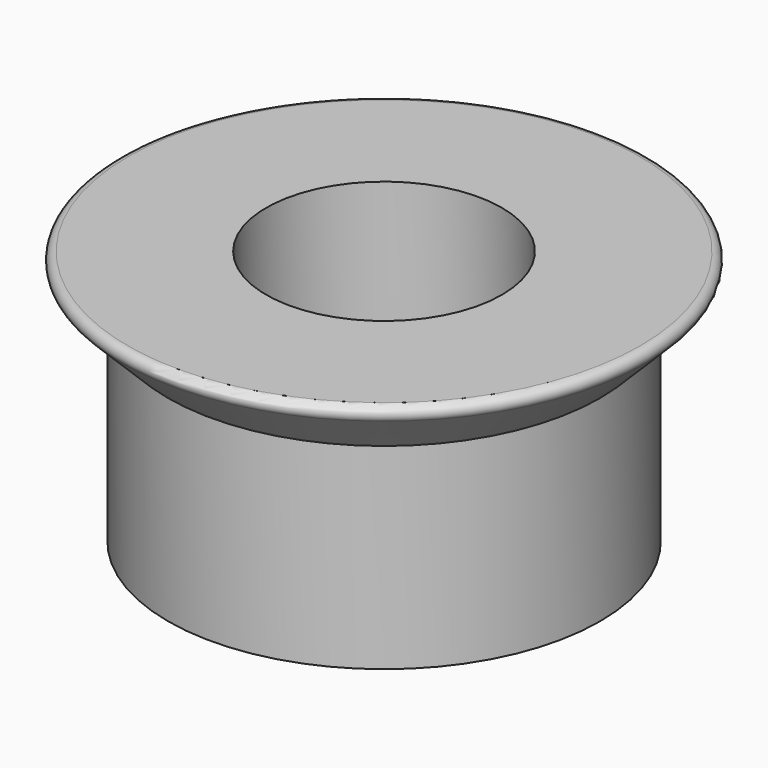
from build123d import *

# Parameters (mm, degrees)
F0_R      = 5.5
F1_DEPTH  = 5
F1_FACE_R = 5.5
F2_DEPTH  = 1.5
F2_TAPER  = -45
F3_R      = 0.2
F4_R      = 1.75
F5_DEPTH  = 6.501
F4_R_2    = 3
F6_DEPTH  = 3.5


with BuildPart() as f1:
    # F0 (on Top) → F1 (new body)
    with BuildSketch(Plane.XY):
        Circle(F0_R)
    extrude(amount=F1_DEPTH)

    # F1_face (on face) → F2 (join)
    with BuildSketch(Plane.XY.offset(5)):
        Circle(F1_FACE_R)
    extrude(amount=F2_DEPTH, taper=F2_TAPER)

    # F3
    f3_edges = [f1.edges().sort_by_distance(p)[0] for p in [
        (-7, 0, 6.5),
    ]]
    fillet(f3_edges, radius=F3_R)

    # F4 (on face) → F5 (cut, through all)
    with BuildSketch(Plane.XY.offset(6.5)):
        Circle(F4_R)
    extrude(amount=-F5_DEPTH, mode=Mode.SUBTRACT)

    # F4 (on face) → F6 (cut)
    with BuildSketch(Plane.XY.offset(6.5)):
        Circle(F4_R_2)
        Circle(F4_R, mode=Mode.SUBTRACT)
    extrude(amount=-F6_DEPTH, mode=Mode.SUBTRACT)


solid = f1.part
